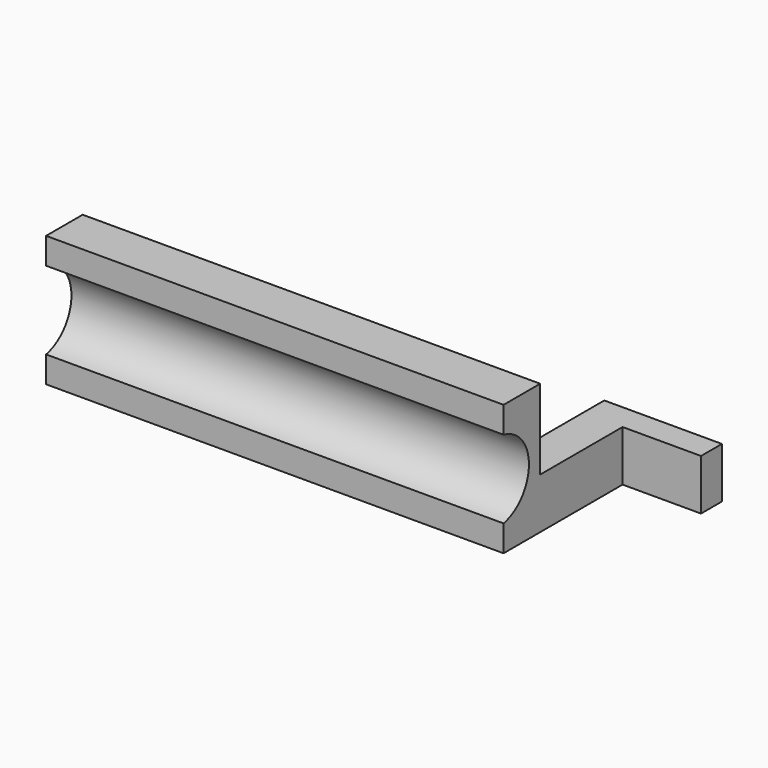
from build123d import *

# Parameters (mm, degrees)
F0_W     = 88.9
F0_H     = 25.4
F1_DEPTH = 8.89
F2_R     = 7.75
F3_DEPTH = 88.901
F4_W     = 7.62
F4_H     = 9.8552
F5_DEPTH = 25.0952
F6_W     = 5.08
F6_H     = 9.8552
F7_DEPTH = 15.24


with BuildPart() as f1:
    # F0 (on Front) → F1 (new body)
    with BuildSketch(Plane.XZ):
        with Locations((-44.45, 12.7)):
            Rectangle(F0_W, F0_H)
    extrude(amount=F1_DEPTH)

    # F2 (on face) → F3 (cut, through all)
    with BuildSketch(Plane(origin=(-88.9, 0, 0), x_dir=(0, -1, 0), z_dir=(-1, 0, 0))):
        with Locations((10.4775, 12.7)):
            Circle(F2_R)
    extrude(amount=-F3_DEPTH, mode=Mode.SUBTRACT)

    # F4 (on face) → F5 (join)
    with BuildSketch(Plane(origin=(0, 0, 0), x_dir=(-1, 0, 0), z_dir=(0, 1, 0))):
        with Locations((3.81, 4.9276)):
            Rectangle(F4_W, F4_H)
    extrude(amount=F5_DEPTH)

    # F6 (on face) → F7 (join)
    with BuildSketch(Plane.YZ):
        with Locations((22.5552, 4.9276)):
            Rectangle(F6_W, F6_H)
    extrude(amount=F7_DEPTH)


solid = f1.part
